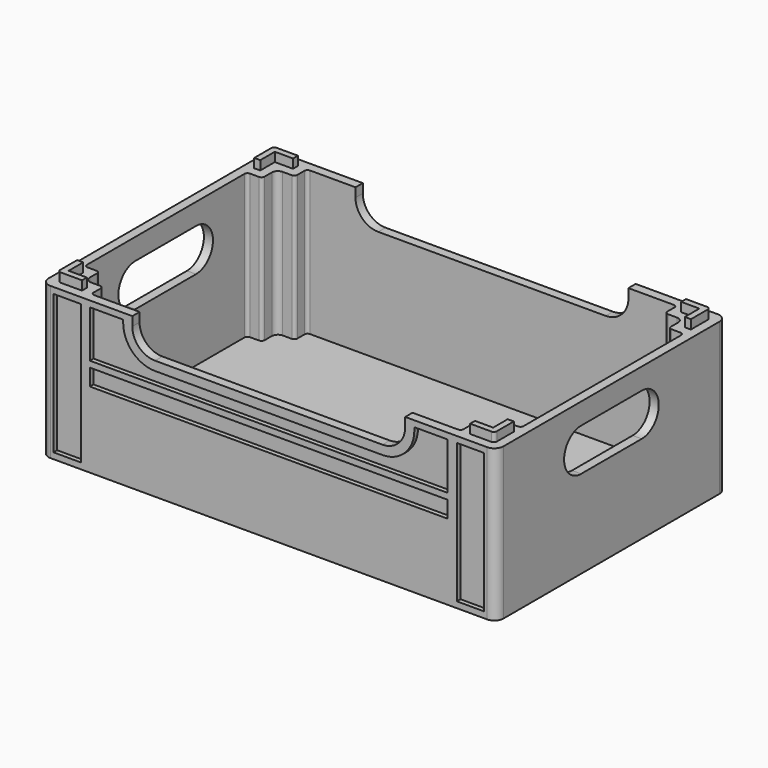
from build123d import *

# Parameters (mm, degrees)
PAD_DEPTH            = 50
POCKET_DEPTH         = 47.5
PAD001_DEPTH         = 3
POCKET001_DEPTH      = 3.4
POCKET002_DEPTH      = 47.501
POCKET002_DEPTH_BACK = -47.501
POCKET003_DEPTH      = 75.001
POCKET003_DEPTH_BACK = -75.001
SKETCH009_W          = 9
SKETCH009_H          = 46
SKETCH009_W_2        = 118
SKETCH009_H_2        = 5.5
POCKET004_DEPTH      = 1.5


with BuildPart() as part:
    # Sketch003 → Pad (new body)
    with BuildSketch(Plane.XY):
        with BuildLine():
            Line((-72, 47.5), (72, 47.5))
            ThreePointArc((75, 44.5), (74.12132, 46.62132), (72, 47.5))
            Line((75, 44.5), (75, -44.5))
            ThreePointArc((72, -47.5), (74.12132, -46.62132), (75, -44.5))
            Line((72, -47.5), (-72, -47.5))
            ThreePointArc((-75, -44.5), (-74.12132, -46.62132), (-72, -47.5))
            Line((-75, -44.5), (-75, 44.5))
            ThreePointArc((-72, 47.5), (-74.12132, 46.62132), (-75, 44.5))
        make_face()
    extrude(amount=PAD_DEPTH)

    # Sketch004 → Pocket (cut)
    with BuildSketch(Plane.XY.offset(50)):
        with BuildLine():
            Line((-72, 32.5), (-72, -32.5))
            ThreePointArc((-72, -32.5), (-71.707107, -33.207107), (-71, -33.5))
            Line((-71, -33.5), (-68, -33.5))
            ThreePointArc((-67, -34.5), (-67.292893, -33.792893), (-68, -33.5))
            Line((-67, -34.5), (-67, -37.5))
            ThreePointArc((-67, -37.5), (-66.414214, -38.914214), (-65, -39.5))
            Line((-65, -39.5), (-62, -39.5))
            ThreePointArc((-61, -40.5), (-61.292893, -39.792893), (-62, -39.5))
            Line((-61, -40.5), (-61, -43.5))
            ThreePointArc((-61, -43.5), (-60.707107, -44.207107), (-60, -44.5))
            Line((-60, -44.5), (60, -44.5))
            ThreePointArc((60, -44.5), (60.707107, -44.207107), (61, -43.5))
            Line((61, -43.5), (61, -40.5))
            ThreePointArc((62, -39.5), (61.292893, -39.792893), (61, -40.5))
            Line((62, -39.5), (65, -39.5))
            ThreePointArc((65, -39.5), (66.414214, -38.914214), (67, -37.5))
            Line((67, -37.5), (67, -34.5))
            ThreePointArc((68, -33.5), (67.292893, -33.792893), (67, -34.5))
            Line((68, -33.5), (71, -33.5))
            ThreePointArc((71, -33.5), (71.707107, -33.207107), (72, -32.5))
            Line((72, -32.5), (72, 32.5))
            ThreePointArc((72, 32.5), (71.707107, 33.207107), (71, 33.5))
            Line((71, 33.5), (68, 33.5))
            ThreePointArc((67, 34.5), (67.292893, 33.792893), (68, 33.5))
            Line((67, 34.5), (67, 37.5))
            ThreePointArc((67, 37.5), (66.414214, 38.914214), (65, 39.5))
            Line((65, 39.5), (62, 39.5))
            ThreePointArc((61, 40.5), (61.292893, 39.792893), (62, 39.5))
            Line((61, 40.5), (61, 43.5))
            ThreePointArc((61, 43.5), (60.707107, 44.207107), (60, 44.5))
            Line((60, 44.5), (-60, 44.5))
            ThreePointArc((-60, 44.5), (-60.707107, 44.207107), (-61, 43.5))
            Line((-61, 43.5), (-61, 40.5))
            ThreePointArc((-62, 39.5), (-61.292893, 39.792893), (-61, 40.5))
            Line((-62, 39.5), (-65, 39.5))
            ThreePointArc((-65, 39.5), (-66.414214, 38.914214), (-67, 37.5))
            Line((-67, 37.5), (-67, 34.5))
            ThreePointArc((-68, 33.5), (-67.292893, 33.792893), (-67, 34.5))
            Line((-68, 33.5), (-71, 33.5))
            ThreePointArc((-71, 33.5), (-71.707107, 33.207107), (-72, 32.5))
        make_face()
    extrude(amount=-POCKET_DEPTH, mode=Mode.SUBTRACT)

    # Sketch005 → Pad001 (join)
    with BuildSketch(Plane.XY.offset(50)):
        with BuildLine():
            Line((-70, 42.5), (-70, 36.5))
            Line((-70, 36.5), (-72, 36.5))
            Line((-72, 36.5), (-72, 43.5))
            ThreePointArc((-71, 44.5), (-71.707107, 44.207107), (-72, 43.5))
            Line((-71, 44.5), (-64, 44.5))
            Line((-64, 44.5), (-64, 42.5))
            Line((-64, 42.5), (-70, 42.5))
        make_face()
        with BuildLine():
            Line((64, 42.5), (70, 42.5))
            Line((70, 42.5), (70, 36.5))
            Line((70, 36.5), (72, 36.5))
            Line((72, 43.5), (72, 36.5))
            ThreePointArc((72, 43.5), (71.707107, 44.207107), (71, 44.5))
            Line((64, 44.5), (71, 44.5))
            Line((64, 44.5), (64, 42.5))
        make_face()
        with BuildLine():
            Line((72, -36.5), (70, -36.5))
            Line((70, -36.5), (70, -42.5))
            Line((70, -42.5), (64, -42.5))
            Line((64, -42.5), (64, -44.5))
            Line((64, -44.5), (71, -44.5))
            ThreePointArc((71, -44.5), (71.707107, -44.207107), (72, -43.5))
            Line((72, -43.5), (72, -36.5))
        make_face()
        with BuildLine():
            Line((-70, -36.5), (-70, -42.5))
            Line((-70, -42.5), (-64, -42.5))
            Line((-64, -42.5), (-64, -44.5))
            Line((-64, -44.5), (-71, -44.5))
            ThreePointArc((-72, -43.5), (-71.707107, -44.207107), (-71, -44.5))
            Line((-72, -43.5), (-72, -36.5))
            Line((-72, -36.5), (-70, -36.5))
        make_face()
    extrude(amount=PAD001_DEPTH)

    # Sketch006 → Pocket001 (cut)
    with BuildSketch(Plane.XY):
        with BuildLine():
            Line((-72.4, 44.9), (-72.4, 36.1))
            Line((-72.4, 36.1), (-69.6, 36.1))
            Line((-69.6, 36.1), (-69.6, 41.1))
            ThreePointArc((-68.6, 42.1), (-69.307107, 41.807107), (-69.6, 41.1))
            Line((-68.6, 42.1), (-63.6, 42.1))
            Line((-63.6, 42.1), (-63.6, 44.9))
            Line((-63.6, 44.9), (-72.4, 44.9))
        make_face()
        with BuildLine():
            Line((63.6, 44.9), (72.4, 44.9))
            Line((72.4, 44.9), (72.4, 36.1))
            Line((72.4, 36.1), (69.6, 36.1))
            Line((69.6, 36.1), (69.6, 41.1))
            ThreePointArc((69.6, 41.1), (69.307107, 41.807107), (68.6, 42.1))
            Line((68.6, 42.1), (63.6, 42.1))
            Line((63.6, 42.1), (63.6, 44.9))
        make_face()
        with BuildLine():
            Line((69.6, -36.1), (72.4, -36.1))
            Line((72.4, -36.1), (72.4, -44.9))
            Line((72.4, -44.9), (63.6, -44.9))
            Line((63.6, -44.9), (63.6, -42.1))
            Line((63.6, -42.1), (68.6, -42.1))
            ThreePointArc((68.6, -42.1), (69.307107, -41.807107), (69.6, -41.1))
            Line((69.6, -41.1), (69.6, -36.1))
        make_face()
        with BuildLine():
            Line((-63.6, -42.1), (-63.6, -44.9))
            Line((-63.6, -44.9), (-72.4, -44.9))
            Line((-72.4, -44.9), (-72.4, -36.1))
            Line((-72.4, -36.1), (-69.6, -36.1))
            Line((-69.6, -36.1), (-69.6, -41.1))
            ThreePointArc((-69.6, -41.1), (-69.307107, -41.807107), (-68.6, -42.1))
            Line((-68.6, -42.1), (-63.6, -42.1))
        make_face()
    extrude(amount=POCKET001_DEPTH, mode=Mode.SUBTRACT)

    # Sketch007 → Pocket002 (cut, two sides)
    with BuildSketch(Plane.XZ) as pocket002_sk:
        with BuildLine():
            Line((-45, 53), (-45, 47))
            ThreePointArc((-45, 47), (-42.803301, 41.696699), (-37.5, 39.5))
            Line((-37.5, 39.5), (37.5, 39.5))
            ThreePointArc((37.5, 39.5), (42.803301, 41.696699), (45, 47))
            Line((45, 47), (45, 50))
            Line((45, 53), (45, 50))
            Line((-45, 53), (45, 53))
        make_face()
    extrude(amount=-POCKET002_DEPTH, mode=Mode.SUBTRACT)
    extrude(pocket002_sk.sketch, amount=-POCKET002_DEPTH_BACK, mode=Mode.SUBTRACT)

    # Sketch008 → Pocket003 (cut, two sides)
    with BuildSketch(Plane.YZ) as pocket003_sk:
        with BuildLine():
            ThreePointArc((-12.5, 43), (-19.5, 36), (-12.5, 29))
            Line((-12.5, 29), (12.5, 29))
            ThreePointArc((12.5, 29), (19.5, 36), (12.5, 43))
            Line((12.5, 43), (-12.5, 43))
        make_face()
    extrude(amount=-POCKET003_DEPTH, mode=Mode.SUBTRACT)
    extrude(pocket003_sk.sketch, amount=-POCKET003_DEPTH_BACK, mode=Mode.SUBTRACT)

    # Sketch009 → Pocket004 (cut)
    with BuildSketch(Plane.XZ.offset(47.5)):
        with Locations((-66.5, 25)):
            Rectangle(SKETCH009_W, SKETCH009_H)
        with Locations((66.5, 25)):
            Rectangle(SKETCH009_W, SKETCH009_H)
        with BuildLine():
            ThreePointArc((-48, 47), (-44.924621, 39.575379), (-37.5, 36.5))
            Line((-37.5, 36.5), (37.5, 36.5))
            ThreePointArc((37.5, 36.5), (44.924621, 39.575379), (48, 47))
            Line((48, 47), (48, 48))
            Line((48, 48), (59, 48))
            Line((59, 48), (59, 32.5))
            Line((59, 32.5), (-59, 32.5))
            Line((-59, 32.5), (-59, 48))
            Line((-59, 48), (-48, 48))
            Line((-48, 48), (-48, 47))
        make_face()
        with Locations((0, 27.75)):
            Rectangle(SKETCH009_W_2, SKETCH009_H_2)
    pocket004 = extrude(amount=-POCKET004_DEPTH, mode=Mode.SUBTRACT)

    # Mirrored: Pocket004 across XZ
    add(pocket004.mirror(Plane.XZ), mode=Mode.SUBTRACT)


solid = part.part
